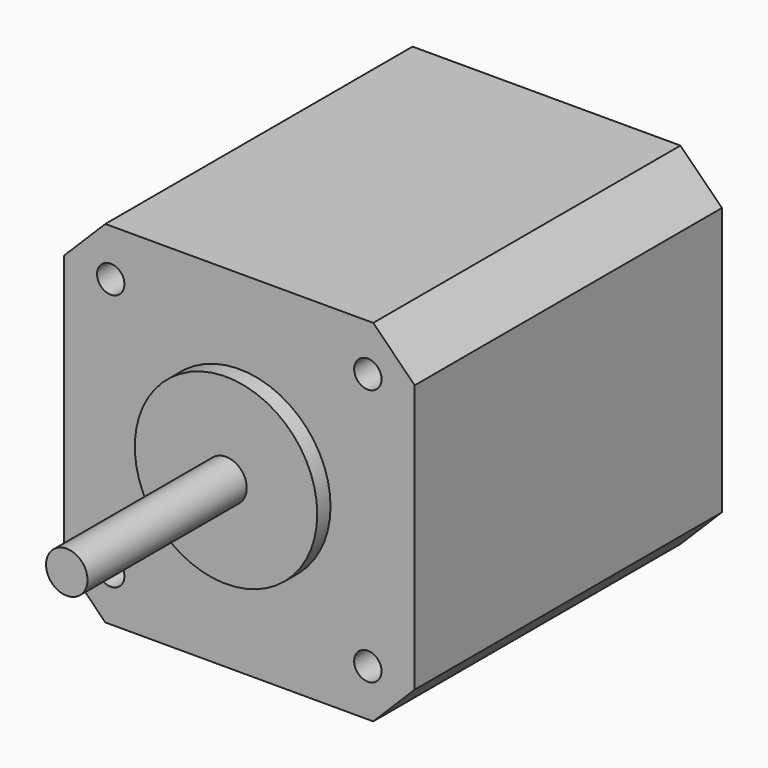
from build123d import *

# Parameters (mm, degrees)
F0_W     = 42.3
F0_H     = 42.3
F1_DEPTH = 46.3
F2_SIZE  = 5
F3_R     = 11
F4_DEPTH = 2
F5_R     = 2.5
F6_DEPTH = 24
F8_D     = 3.3


with BuildPart() as f1:
    # F0 (on Front) → F1 (new body)
    with BuildSketch(Plane.XZ):
        Rectangle(F0_W, F0_H)
    extrude(amount=-F1_DEPTH)

    # F2
    f2_edges = [f1.edges().sort_by_distance(p)[0] for p in [
        (-21.15, 23.15, 21.15),
        (21.15, 23.15, 21.15),
        (-21.15, 23.15, -21.15),
        (21.15, 23.15, -21.15),
    ]]
    chamfer(f2_edges, length=F2_SIZE)

    # F3 (on face) → F4 (join)
    with BuildSketch(Plane.XZ):
        Circle(F3_R)
    extrude(amount=F4_DEPTH)

    # F5 (on face) → F6 (join)
    with BuildSketch(Plane.XZ.offset(2)):
        Circle(F5_R)
    extrude(amount=F6_DEPTH)

    # F8 (through all)
    with Locations(Plane.XZ):
        with Locations((15.5, 15.5), (-15.5, 15.5), (-15.5, -15.5), (15.5, -15.5)):
            Hole(F8_D / 2)


solid = f1.part
